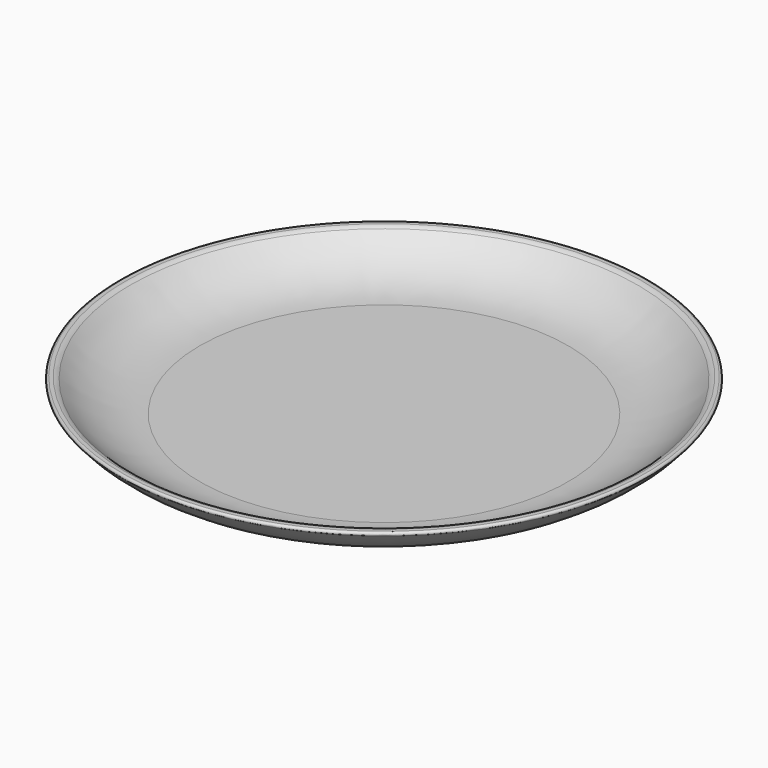
from build123d import *

# Parameters (mm, degrees)
F0_W = 3
F0_H = 2
F2_R = 1
F3_R = 3
F4_R = 1.5
F5_R = 5


with BuildPart() as f1:
    # F0 (on Front) → F1 (revolve)
    with BuildSketch(Plane.XZ):
        with BuildLine():
            Line((-87, 0), (0, 0))
            Line((0, 0), (0, 4))
            Line((0, 4), (-90, 4))
            ThreePointArc((-90, 4), (-109.183326, 8.19091), (-124.871192, 20))
            Line((-124.871192, 20), (-130, 20))
            ThreePointArc((-130, 20), (-112.36068, 5.27864), (-90, 0))
            Line((-90, 0), (-87, 0))
        make_face()
        with Locations((-88.5, -1)):
            Rectangle(F0_W, F0_H)
    revolve(axis=Axis((0, 0, 2), (0, 0, -1)))

    # F2
    f2_edges = [f1.edges().sort_by_distance(p)[0] for p in [
        (130, 0, 20),
        (90, 0, -2),
        (87, 0, -2),
    ]]
    fillet(f2_edges, radius=F2_R)

    # F3
    f3_edges = [f1.edges().sort_by_distance(p)[0] for p in [
        (124.871192, 0, 20),
    ]]
    fillet(f3_edges, radius=F3_R)

    # F4
    f4_edges = [f1.edges().sort_by_distance(p)[0] for p in [
        (90, 0, 0),
    ]]
    fillet(f4_edges, radius=F4_R)

    # F5
    f5_edges = [f1.edges().sort_by_distance(p)[0] for p in [
        (87, 0, 0),
    ]]
    fillet(f5_edges, radius=F5_R)


solid = f1.part
